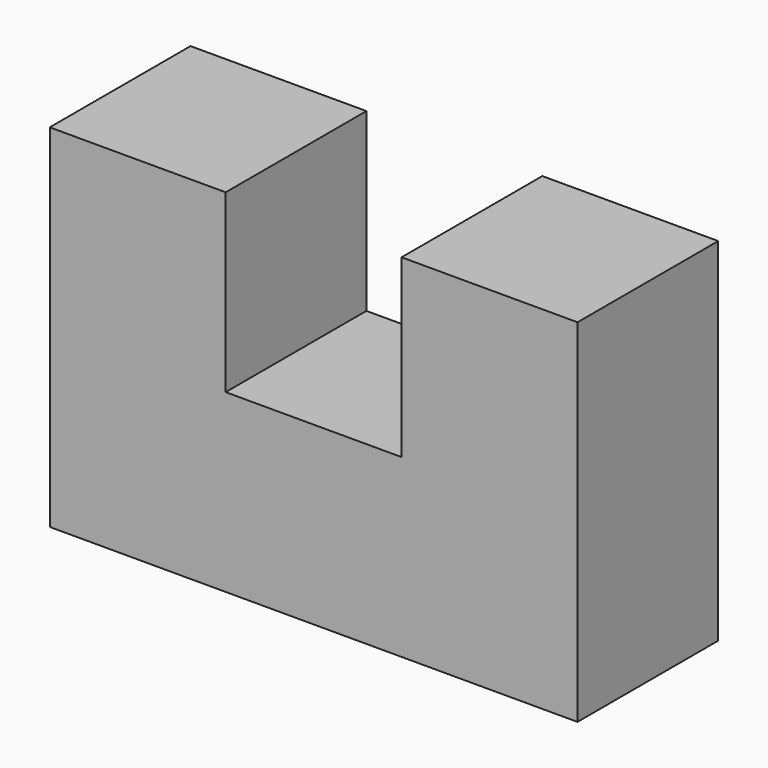
from build123d import *

# Parameters (mm, degrees)
F0_W     = 76.2
F0_H     = 76.2
F1_DEPTH = 38.1


with BuildPart() as f1:
    # F0 (on Front) → F1 (new body, symmetric)
    with BuildSketch(Plane.XZ):
        with Locations((-7.761115, 38.1)):
            Rectangle(F0_W, F0_H)
        with Locations((-7.761115, 114.3)):
            Rectangle(F0_W, F0_H)
        with Locations((68.438885, 38.1)):
            Rectangle(F0_W, F0_H)
        with Locations((144.638885, 38.1)):
            Rectangle(F0_W, F0_H)
        with Locations((144.638885, 114.3)):
            Rectangle(F0_W, F0_H)
    extrude(amount=F1_DEPTH, both=True)


solid = f1.part
